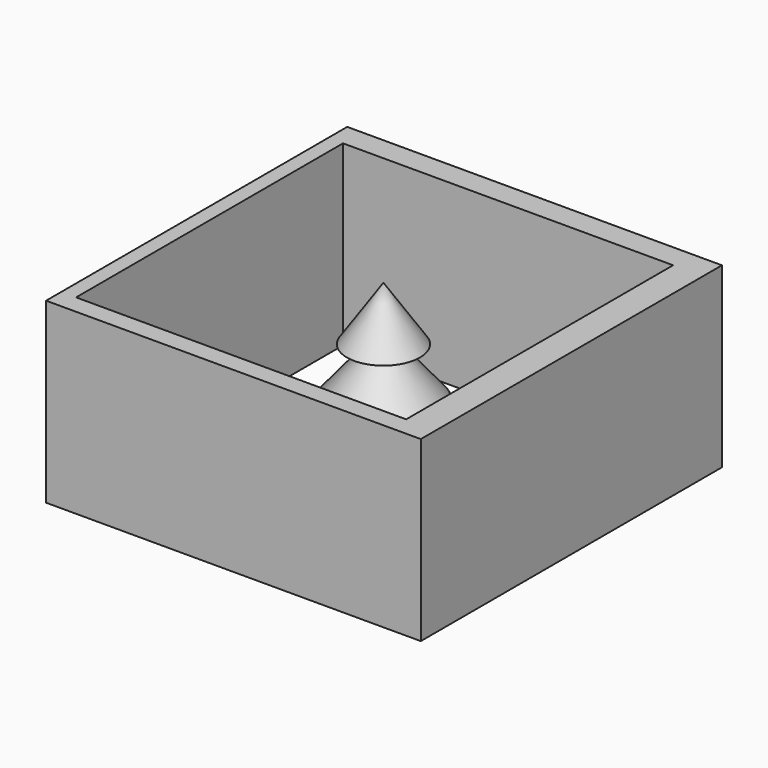
from build123d import *

# Parameters (mm, degrees)
F3_W     = 151.938185
F3_H     = 152.63091
F3_W_2   = 133.849606
F3_H_2   = 135.291994
F4_DEPTH = 72.12365


with BuildPart() as f1:
    # F0 (on Front) → F1 (revolve)
    with BuildSketch(Plane.XZ):
        Polygon((-28.863637, 12.122728), (-11.545454, 12.122728), (-6.465455, 12.122728), (-6.465455, 0), (0, 0), (0, 72.159089), (-14.778182, 50.222728), (-5.31091, 50.222728), (-21.474546, 30.595455), (-8.543637, 30.595455), align=None)
    revolve(axis=Axis((0, 0, 36.079545), (0, 0, -1)))


with BuildPart() as f4:
    # F3 (on face) → F4 (new body)
    with BuildSketch(Plane.XY):
        with Locations((0.230909, 0)):
            Rectangle(F3_W, F3_H)
        with Locations((-2.808504, -0.97239)):
            Rectangle(F3_W_2, F3_H_2, mode=Mode.SUBTRACT)
    extrude(amount=F4_DEPTH)


solid = Compound([f1.part, f4.part])
